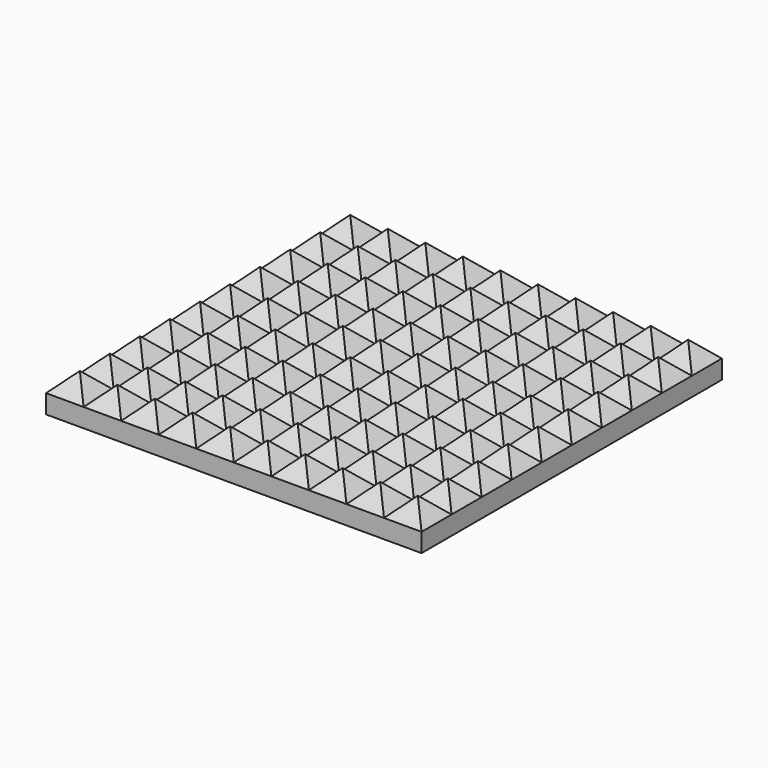
from build123d import *

# Parameters (mm, degrees)
F0_W     = 10
F0_H     = 10
F1_DEPTH = 1
F4_DEPTH = 25
F5_DEPTH = 25


with BuildPart() as f1:
    # F0 (on Top) → F1 (new body)
    with BuildSketch(Plane.XY):
        with Locations((5, -5)):
            Rectangle(F0_W, F0_H)
    extrude(amount=F1_DEPTH)

    # F3 (on face) → F4 (cut)
    with BuildSketch(Plane(origin=(0, 0, 0), x_dir=(0, -1, 0), z_dir=(-1, 0, 0))):
        Polygon((0, 1), (0, 0.5), (0.5, 0.981161), (1, 0.5), (1.5, 0.981161), (2, 0.5), (2.5, 0.981161), (3, 0.5), (3.5, 0.981161), (4, 0.5), (4.5, 0.981161), (5, 0.5), (5.5, 0.981161), (6, 0.5), (6.5, 0.981161), (7, 0.5), (7.5, 0.981161), (8, 0.5), (8.5, 0.981161), (9, 0.5), (9.5, 0.981161), (10, 0.5), (10, 1), align=None)
    extrude(amount=-F4_DEPTH, mode=Mode.SUBTRACT)

    # F2 (on face) → F5 (cut)
    with BuildSketch(Plane(origin=(0, 0, 0), x_dir=(-1, 0, 0), z_dir=(0, 1, 0))):
        Polygon((-10, 1), (-10, 0.5), (-9.5, 0.981161), (-9, 0.5), (-8.5, 0.981161), (-8, 0.5), (-7.5, 0.981161), (-7, 0.5), (-6.5, 0.981161), (-6, 0.5), (-5.5, 0.981161), (-5, 0.5), (-4.5, 0.981161), (-4, 0.5), (-3.5, 0.981161), (-3, 0.5), (-2.5, 0.981161), (-2, 0.5), (-1.5, 0.981161), (-1, 0.5), (-0.5, 0.981161), (0, 0.5), (0, 1), align=None)
    extrude(amount=-F5_DEPTH, mode=Mode.SUBTRACT)


solid = f1.part
